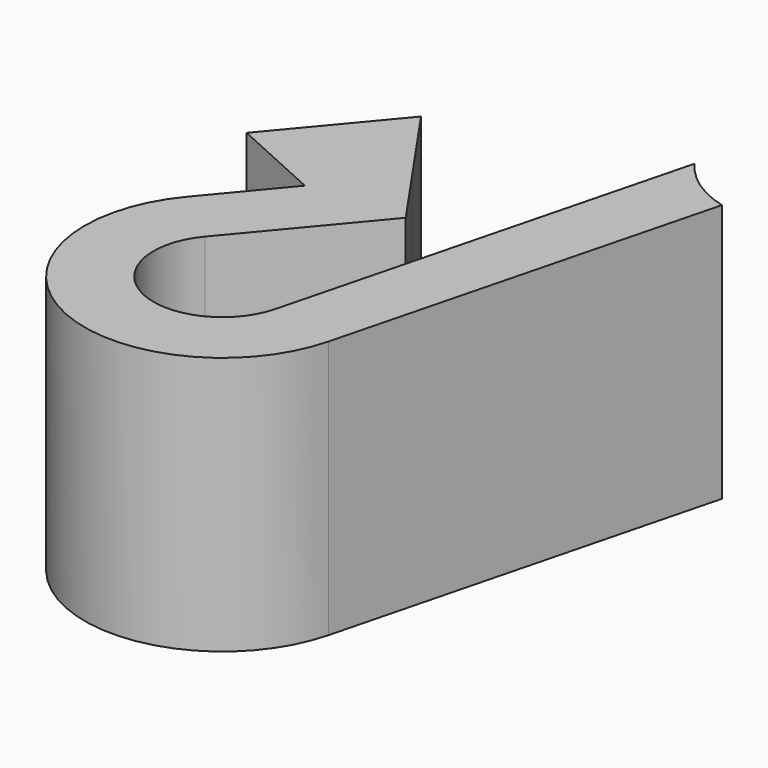
from build123d import *

# Parameters (mm, degrees)
F1_DEPTH = 8.45


with BuildPart() as f1:
    # F0 (on Top) → F1 (new body)
    with BuildSketch(Plane.XY):
        with BuildLine():
            Line((-4.005518, -15.555335), (-0.872783, -3.389432))
            ThreePointArc((-0.872783, -3.389432), (-1.979533, -2.886425), (-2.84746, -2.035183))
            Line((-2.84746, -2.035183), (-6.184439, -14.99426))
            ThreePointArc((-6.184439, -14.99426), (-9.390213, -16.435202), (-10.090302, -12.990905))
            Line((-10.090302, -12.990905), (-6.736962, -8.975718))
            Line((-6.736962, -8.975718), (-8.065379, -7.056256))
            Line((-8.065379, -7.056256), (-9.855412, -9.199588))
            Line((-9.855412, -9.199588), (-9.921916, -9.279217))
            Line((-9.921916, -9.279217), (-11.817244, -11.548626))
            ThreePointArc((-11.817244, -11.548626), (-10.417067, -18.437219), (-4.005518, -15.555335))
        make_face()
        Polygon((-9.855412, -9.199588), (-8.065379, -7.056256), (-8.081104, -7.033535), (-9.929378, -4.36292), (-12.83781, -7.845389), align=None)
    extrude(amount=F1_DEPTH)


solid = f1.part
